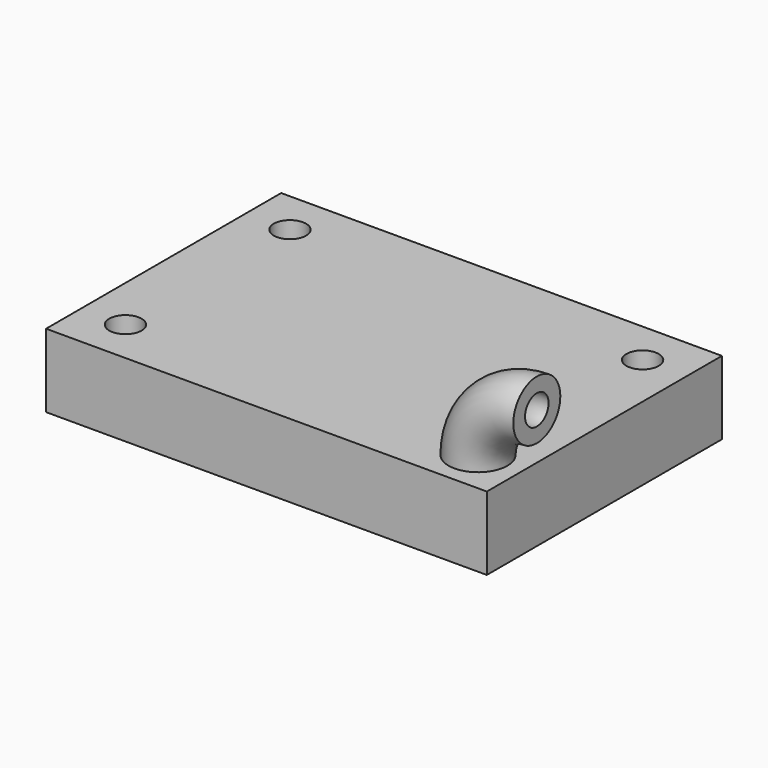
from build123d import *

# Parameters (mm, degrees)
F0_W     = 150
F0_H     = 100
F1_DEPTH = 25
F2_D     = 11
F3_R     = 10
F3_R_2   = 5
F4_ANGLE = 90


with BuildPart() as f1:
    # F0 (on Top) → F1 (new body)
    with BuildSketch(Plane.XY):
        Rectangle(F0_W, F0_H)
    extrude(amount=-F1_DEPTH)

    # F2 (through all)
    with Locations(Plane.XY):
        with Locations((-60, -35), (60, -35), (60, 35), (-60, 35)):
            Hole(F2_D / 2)


with BuildPart() as f4:
    # F3 (on face) → F4 (revolve)
    with BuildSketch(Plane.XY):
        with Locations((60, -35)):
            Circle(F3_R)
        with Locations((60, -35)):
            Circle(F3_R_2, mode=Mode.SUBTRACT)
    revolve(axis=Axis((80, -35.077563487, 0), (0, 1, 0)), revolution_arc=F4_ANGLE)


solid = Compound([f1.part, f4.part])
